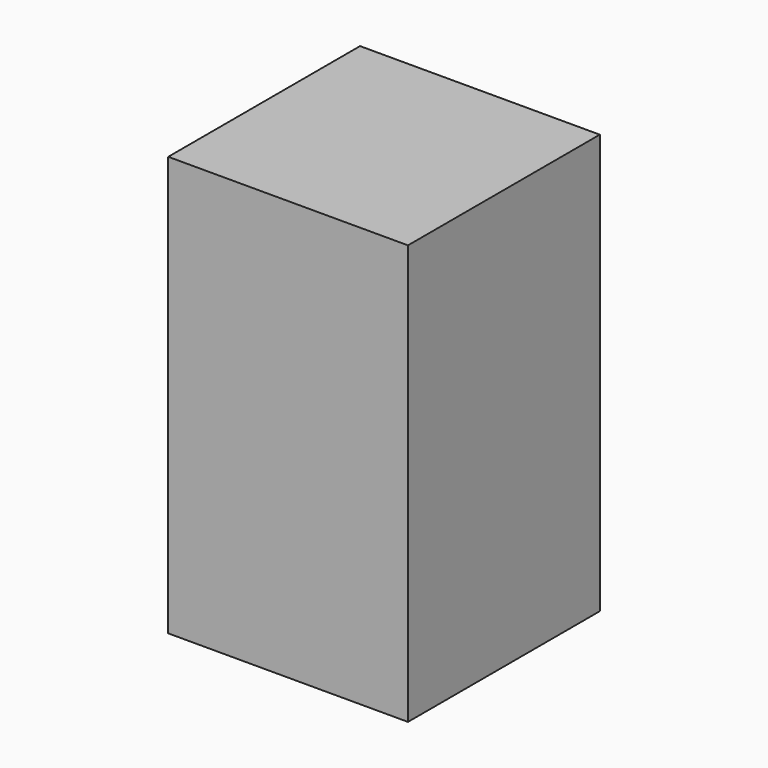
from build123d import *

# Parameters (mm, degrees)
F0_W     = 50.8
F0_H     = 50.8
F1_DEPTH = 88.9
F2_W     = 20.6375
F2_H     = 20.6375
F3_DEPTH = 85.725


with BuildPart() as f1:
    # F0 (on Top) → F1 (new body)
    with BuildSketch(Plane.XY):
        with Locations((-25.4, 25.4)):
            Rectangle(F0_W, F0_H)
    extrude(amount=F1_DEPTH)

    # F2 (on Top) → F3 (cut)
    with BuildSketch(Plane.XY):
        with Locations((-37.30625, 37.30625)):
            Rectangle(F2_W, F2_H)
        with Locations((-13.49375, 37.30625)):
            Rectangle(F2_W, F2_H)
        with Locations((-37.30625, 13.49375)):
            Rectangle(F2_W, F2_H)
        with Locations((-13.49375, 13.49375)):
            Rectangle(F2_W, F2_H)
    extrude(amount=F3_DEPTH, mode=Mode.SUBTRACT)


solid = f1.part
